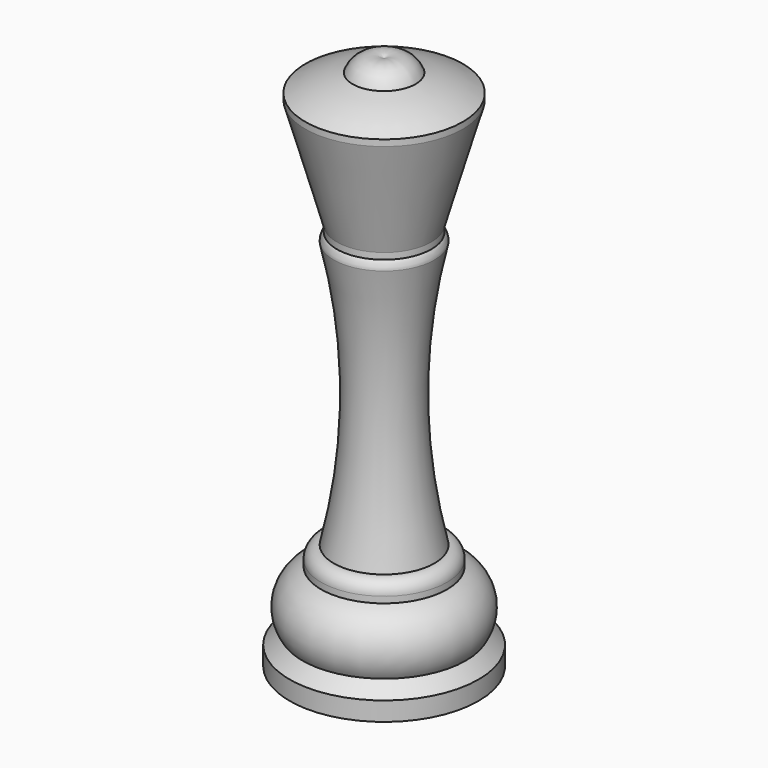
from build123d import *


with BuildPart() as f1:
    # F0 (on Front) → F1 (revolve)
    with BuildSketch(Plane.XZ):
        with BuildLine():
            Line((12.5, -5.844262), (12.5, -4.844262))
            ThreePointArc((12.5, -4.844262), (8.864816, -3.119375), (5, -2))
            ThreePointArc((5, -2), (2.955326, 0.138315), (0, 0))
            Line((0, 0), (0, -85))
            Line((0, -85), (15, -85))
            Line((15, -85), (15, -82))
            Line((15, -82), (13, -80))
            ThreePointArc((13, -80), (13.688326, -74.783119), (10, -71.03))
            Line((10, -71.03), (10, -70.03))
            ThreePointArc((10, -70.03), (9.414214, -68.615786), (8, -68.03))
            ThreePointArc((8, -68.03), (5.463843, -46.815), (8, -25.6))
            ThreePointArc((8, -25.6), (7.870829, -24.892893), (7.5, -24.277124))
            Line((7.5, -24.277124), (7.5, -23.277124))
            Line((7.5, -23.277124), (12.5, -5.844262))
        make_face()
    revolve(axis=Axis((0, 0, -42.5), (0, 0, 1)))


solid = f1.part
